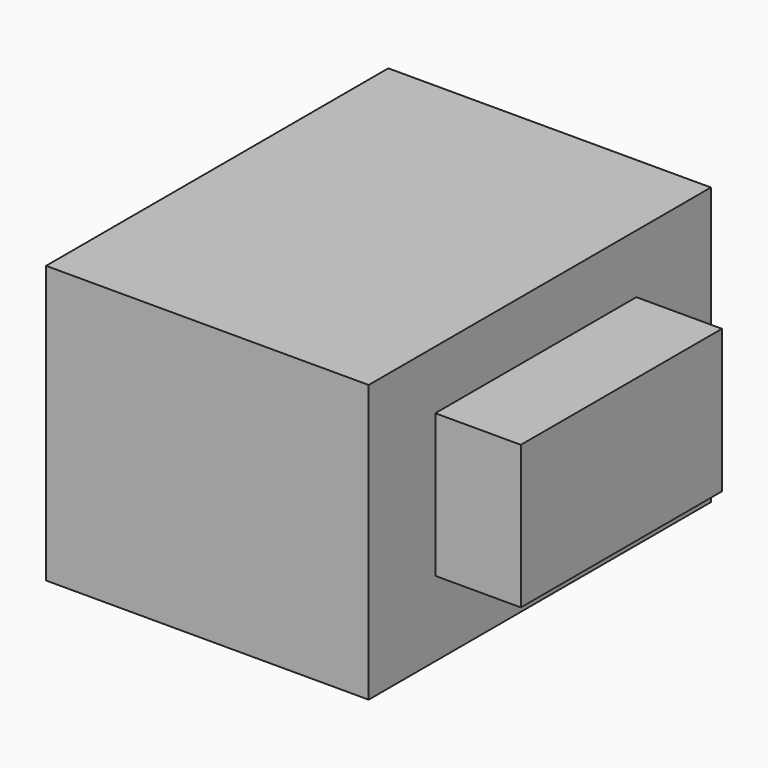
from build123d import *

# Parameters (mm, degrees)
F0_W     = 95.7834
F0_H     = 82.262423
F1_DEPTH = 63.5
F2_W     = 74.623767
F2_H     = 42.502253
F3_DEPTH = 25.4


with BuildPart() as f1:
    # F0 (on Front) → F1 (new body, symmetric)
    with BuildSketch(Plane.XZ):
        with Locations((9.496133, -3.427601)):
            Rectangle(F0_W, F0_H)
    extrude(amount=F1_DEPTH, both=True)


with BuildPart() as f3:
    # F2 (on face) → F3 (new body, symmetric)
    with BuildSketch(Plane.YZ.offset(57.387833)):
        with Locations((-1.468974, -0.979314)):
            Rectangle(F2_W, F2_H)
    extrude(amount=F3_DEPTH, both=True)


solid = Compound([f1.part, f3.part])
